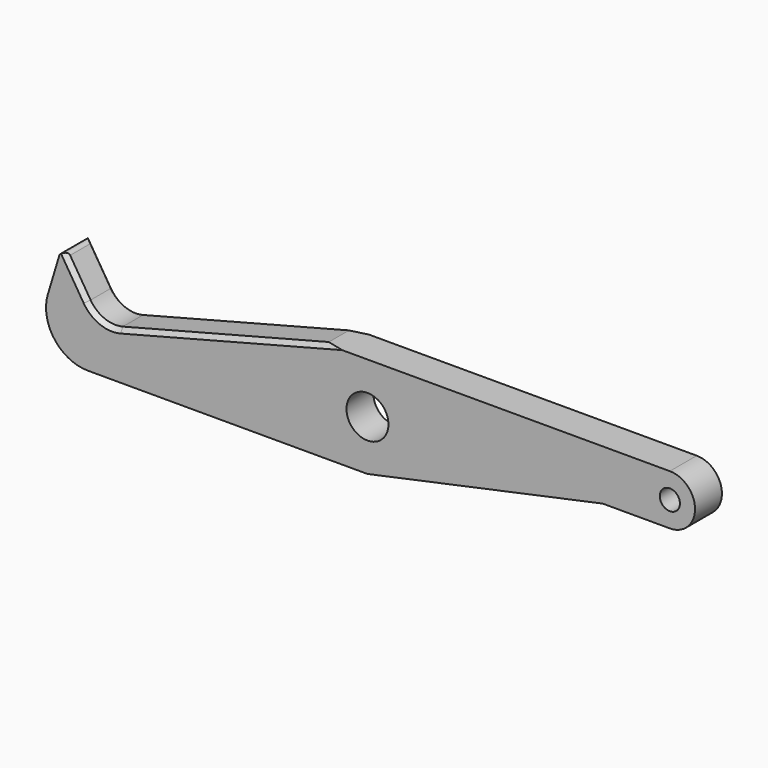
from build123d import *

# Parameters (mm, degrees)
F1_DEPTH = 4
F2_D     = 5
F3_R     = 3.5
F4_D     = 2.4
F5_SIZE  = 0.5
F6_R     = 5
F7_R     = 0.5


with BuildPart() as f1:
    # F0 (on Front) → F1 (new body)
    with BuildSketch(Plane.XZ):
        with BuildLine():
            Line((-36.3799407881, 6), (-40, -6))
            Line((-40, -6), (0, -6))
            Line((0, -6), (28, 0))
            Line((28, 0), (36, 0))
            ThreePointArc((36, 0), (39, 3), (36, 6))
            Line((36, 6), (-5, 6))
            Line((-5, 6), (-32, -1))
            Line((-32, -1), (-36.3799407881, 6))
        make_face()
    extrude(amount=-F1_DEPTH)

    # F2 (through all)
    with Locations(Plane.XZ):
        with Locations((0, 0)):
            Hole(F2_D / 2)

    # F3
    f3_edges = [f1.edges().sort_by_distance(p)[0] for p in [
        (-32, 2, -1),
    ]]
    fillet(f3_edges, radius=F3_R)

    # F4 (through all)
    with Locations(Plane.XZ):
        with Locations((36, 3)):
            Hole(F4_D / 2)

    # F5
    f5_edges = [f1.edges().sort_by_distance(p)[0] for p in [
        (-34.870592, 0, 3.587766),
        (-34.870592, 4, 3.587766),
    ]]
    chamfer(f5_edges, length=F5_SIZE)

    # F6
    f6_edges = [f1.edges().sort_by_distance(p)[0] for p in [
        (-40, 2, -6),
    ]]
    fillet(f6_edges, radius=F6_R)

    # F7
    f7_edges = [f1.edges().sort_by_distance(p)[0] for p in [
        (-36.379941, 2, 6),
    ]]
    fillet(f7_edges, radius=F7_R)


solid = f1.part
